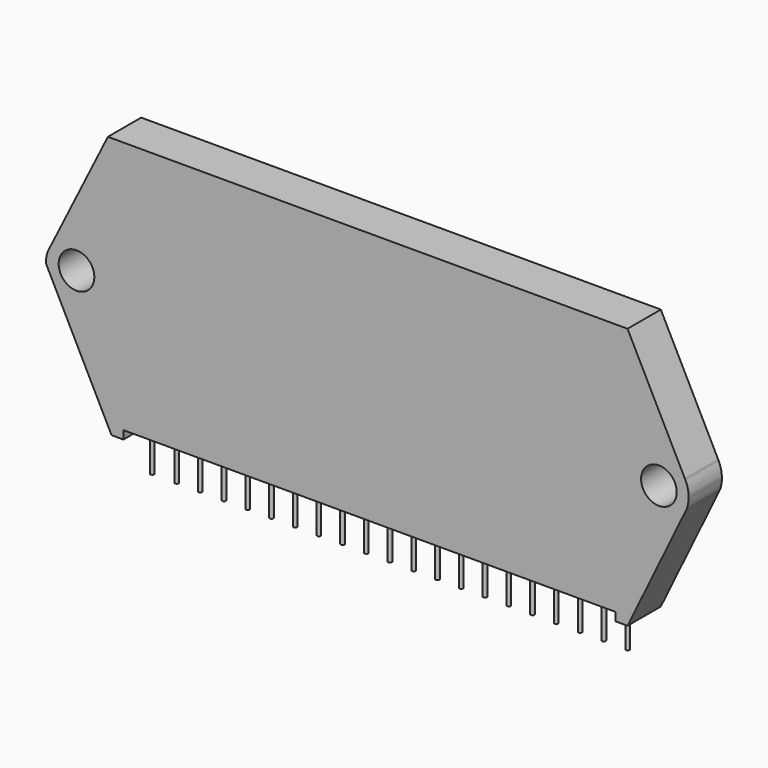
from build123d import *

# Parameters (mm, degrees)
F0_R     = 1.905
F1_DEPTH = 4.445
F2_R     = 0.197788
F3_DEPTH = 5.08


with BuildPart() as f1:
    # F0 (on Front) → F1 (new body)
    with BuildSketch(Plane.XZ):
        with BuildLine():
            Line((-34.351012, -0.455784), (-27.372823, -14.2748))
            Line((-27.372823, -14.2748), (-26.102823, -14.2748))
            Line((-26.102823, -14.2748), (-26.102823, -13.3858))
            Line((-26.102823, -13.3858), (26.4922, -13.3858))
            Line((26.4922, -13.3858), (26.4922, -14.2748))
            Line((26.4922, -14.2748), (27.7622, -14.2748))
            Line((27.7622, -14.2748), (34.112759, -1.172882))
            ThreePointArc((34.112759, -1.172882), (34.237632, -0.680191), (34.29, -0.174628))
            Line((34.29, -0.174628), (34.29, 0.040833))
            ThreePointArc((34.29, 0.040833), (34.190214, 0.770635), (33.940243, 1.463515))
            Line((33.940243, 1.463515), (33.885464, 1.571705))
            Line((33.885464, 1.571705), (27.7622, 13.6652))
            Line((27.7622, 13.6652), (-27.7622, 13.6652))
            Line((-27.7622, 13.6652), (-34.037276, 1.089961))
            ThreePointArc((-34.037276, 1.089961), (-34.314155, 0.341447), (-34.351012, -0.455784))
        make_face()
        with Locations((-31.115, 0)):
            Circle(F0_R, mode=Mode.SUBTRACT)
        with Locations((31.115, 0)):
            Circle(F0_R, mode=Mode.SUBTRACT)
        with BuildLine():
            ThreePointArc((33.940243, 1.463515), (33.913321, 1.517847), (33.885464, 1.571705))
            Line((33.885464, 1.571705), (33.940243, 1.463515))
        make_face()
        with BuildLine():
            Line((34.29, 0.040833), (34.29, -0.174628))
            ThreePointArc((34.29, -0.174628), (34.291654, -0.066897), (34.29, 0.040833))
        make_face()
    extrude(amount=F1_DEPTH)

    # F2 (on face) → F3 (join)
    with BuildSketch(Plane(origin=(0, 0, -13.3858), x_dir=(1, 0, 0), z_dir=(0, 0, -1))):
        with Locations((0, 1.4732)):
            Circle(F2_R)
        with Locations((2.54, 1.4732)):
            Circle(F2_R)
        with Locations((5.08, 1.4732)):
            Circle(F2_R)
        with Locations((7.62, 1.4732)):
            Circle(F2_R)
        with Locations((10.16, 1.4732)):
            Circle(F2_R)
        with Locations((12.7, 1.4732)):
            Circle(F2_R)
        with Locations((15.24, 1.4732)):
            Circle(F2_R)
        with Locations((17.78, 1.4732)):
            Circle(F2_R)
        with Locations((20.32, 1.4732)):
            Circle(F2_R)
        with Locations((22.86, 1.4732)):
            Circle(F2_R)
        with Locations((-2.53203, 1.4732)):
            Circle(F2_R)
        with Locations((-5.06406, 1.4732)):
            Circle(F2_R)
        with Locations((-7.59609, 1.4732)):
            Circle(F2_R)
        with Locations((-10.12812, 1.4732)):
            Circle(F2_R)
        with Locations((-12.66015, 1.4732)):
            Circle(F2_R)
        with Locations((-15.19218, 1.4732)):
            Circle(F2_R)
        with Locations((-17.72421, 1.4732)):
            Circle(F2_R)
        with Locations((-20.25624, 1.4732)):
            Circle(F2_R)
        with Locations((-22.78827, 1.4732)):
            Circle(F2_R)
        with Locations((25.4, 1.4732)):
            Circle(F2_R)
        with Locations((-25.4, 1.4732)):
            Circle(F2_R)
        with Locations((0, 1.4732)):
            Circle(F2_R)
        with Locations((-7.59609, 1.4732)):
            Circle(F2_R)
        with Locations((-2.53203, 1.4732)):
            Circle(F2_R)
        with Locations((-5.06406, 1.4732)):
            Circle(F2_R)
        with Locations((22.86, 1.4732)):
            Circle(F2_R)
        with Locations((20.32, 1.4732)):
            Circle(F2_R)
        with Locations((17.78, 1.4732)):
            Circle(F2_R)
        with Locations((15.24, 1.4732)):
            Circle(F2_R)
        with Locations((-20.25624, 1.4732)):
            Circle(F2_R)
        with Locations((12.7, 1.4732)):
            Circle(F2_R)
        with Locations((2.54, 1.4732)):
            Circle(F2_R)
        with Locations((5.08, 1.4732)):
            Circle(F2_R)
        with Locations((7.62, 1.4732)):
            Circle(F2_R)
        with Locations((10.16, 1.4732)):
            Circle(F2_R)
        with Locations((-17.72421, 1.4732)):
            Circle(F2_R)
        with Locations((-22.78827, 1.4732)):
            Circle(F2_R)
        with Locations((-12.66015, 1.4732)):
            Circle(F2_R)
        with Locations((-10.12812, 1.4732)):
            Circle(F2_R)
        with Locations((-15.19218, 1.4732)):
            Circle(F2_R)
    extrude(amount=F3_DEPTH)


solid = f1.part
